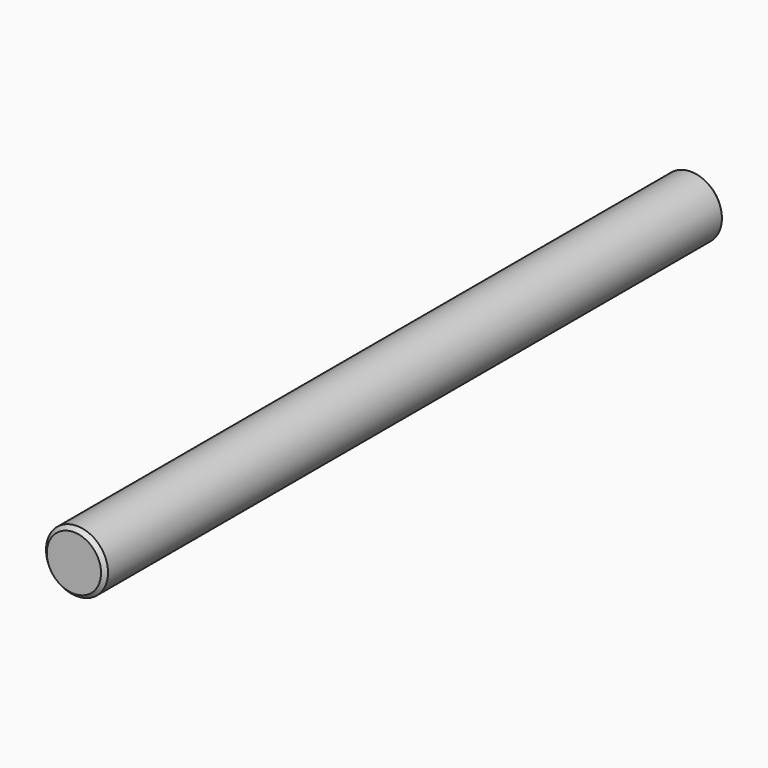
from build123d import *

# Parameters (mm, degrees)
F0_R     = 4
F1_DEPTH = 100
F2_SIZE  = 0.5
F3_SIZE  = 0.5


with BuildPart() as f1:
    # F0 (on Front) → F1 (new body)
    with BuildSketch(Plane.XZ):
        Circle(F0_R)
    extrude(amount=F1_DEPTH)

    # F2
    f2_edges = [f1.edges().sort_by_distance(p)[0] for p in [
        (-4, 0, 0),
    ]]
    chamfer(f2_edges, length=F2_SIZE)

    # F3
    f3_edges = [f1.edges().sort_by_distance(p)[0] for p in [
        (-4, -100, 0),
    ]]
    chamfer(f3_edges, length=F3_SIZE)


solid = f1.part
